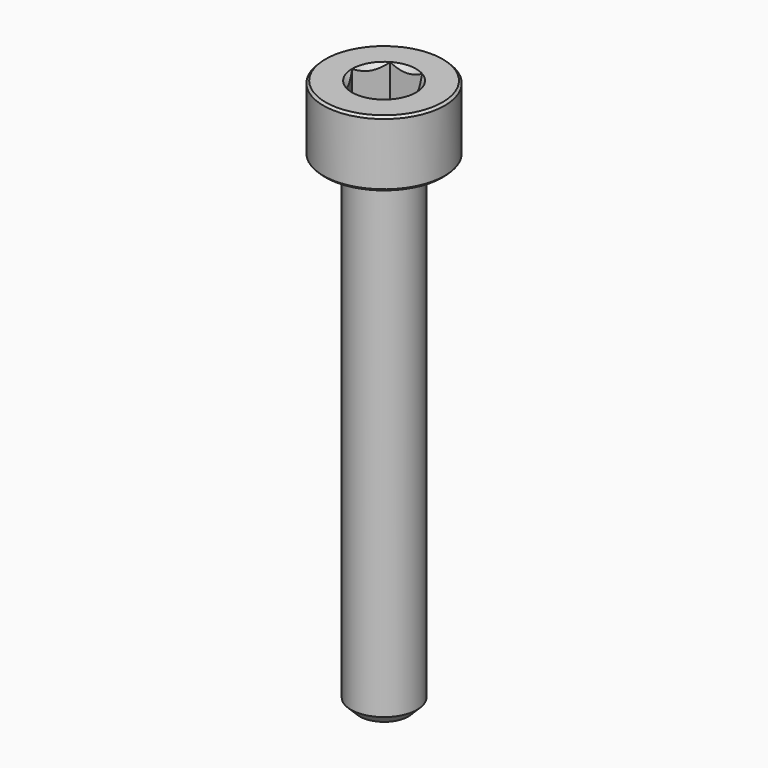
from build123d import *

# Parameters (mm, degrees)
SKETCH001_R     = 3.75
POCKET_DEPTH    = 9.70192
CHAMFER_SIZE    = 0.4
CHAMFER001_SIZE = 0.1


with BuildPart() as pocket:
    # Sketch003 → Revolution001 (revolve)
    with BuildSketch(Plane.XZ):
        Polygon((0, 0.29908), (2.75, 1.3), (2.75, 10), (0, 10), align=None)
    revolve(axis=Axis((0, 0, 0), (0, 0, 1)))

    # Sketch001 → Pocket (cut, through all)
    with BuildSketch(Plane(origin=(0, 0, 10), x_dir=(-1, 0, 0), z_dir=(0, 0, 1))):
        Circle(SKETCH001_R)
        Polygon((-0.721688, 1.25), (0.721688, 1.25), (1.443376, 0), (0.721688, -1.25), (-0.721688, -1.25), (-1.443376, 0), align=None, mode=Mode.SUBTRACT)
    extrude(amount=-POCKET_DEPTH, mode=Mode.SUBTRACT)


with BuildPart() as chamfer001:
    # Sketch → Revolution (revolve)
    with BuildSketch(Plane.XZ):
        Polygon((1.45, 3), (2.75, 3), (2.75, 0), (1.5, 0), (1.5, -22), (0, -22), (0, 1.549999), align=None)
    revolve(axis=Axis((0, 0, 0), (0, 0, 1)))

    # Cut: cut Pocket
    add(pocket.part, mode=Mode.SUBTRACT)

    # Chamfer
    chamfer_edges = [chamfer001.edges().sort_by_distance(p)[0] for p in [
        (-1.5, 0, -22),
    ]]
    chamfer(chamfer_edges, length=CHAMFER_SIZE)

    # Chamfer001
    chamfer001_edges = [chamfer001.edges().sort_by_distance(p)[0] for p in [
        (-2.75, 0, 0),
        (-2.75, 0, 3),
    ]]
    chamfer(chamfer001_edges, length=CHAMFER001_SIZE)


solid = chamfer001.part
